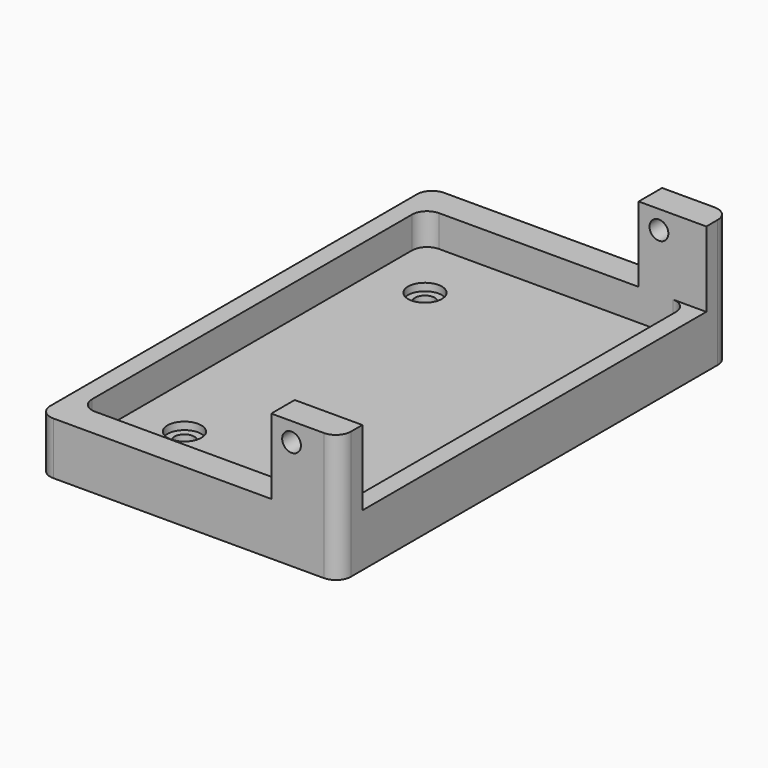
from build123d import *

# Parameters (mm, degrees)
F0_W      = 50.8
F0_H      = 82.55
F1_DEPTH  = 8.89
F2_W      = 44.577
F2_H      = 72.644
F3_DEPTH  = 5.334
F4_R      = 2.54
F5_R      = 1.651
F6_DEPTH  = 25.4
F7_R      = 2.8575
F8_DEPTH  = 1.27
F9_W      = 11.43
F9_H      = 4.953
F10_DEPTH = 12.7
F11_R     = 1.5875
F12_DEPTH = 127
F13_R     = 2.54


with BuildPart() as f1:
    # F0 (on Top) → F1 (new body)
    with BuildSketch(Plane.XY):
        with Locations((-5.138001, -3.863245)):
            Rectangle(F0_W, F0_H)
    extrude(amount=F1_DEPTH)

    # F2 (on face) → F3 (cut)
    with BuildSketch(Plane.XY.offset(8.89)):
        with Locations((-5.138001, -3.863245)):
            Rectangle(F2_W, F2_H)
    extrude(amount=-F3_DEPTH, mode=Mode.SUBTRACT)

    # F4
    f4_edges = [f1.edges().sort_by_distance(p)[0] for p in [
        (-27.426501, 32.458755, 6.223),
        (17.150499, 32.458755, 6.223),
        (17.150499, -40.185245, 6.223),
        (-27.426501, -40.185245, 6.223),
    ]]
    fillet(f4_edges, radius=F4_R)

    # F5 (on face) → F6 (cut)
    with BuildSketch(Plane.XY.offset(3.556)):
        with Locations((-18.536501, 21.536755)):
            Circle(F5_R)
        with Locations((-18.536501, -29.263245)):
            Circle(F5_R)
    extrude(amount=-F6_DEPTH, mode=Mode.SUBTRACT)

    # F7 (on face) → F8 (cut)
    with BuildSketch(Plane.XY.offset(3.556)):
        with Locations((-18.536501, 21.536755)):
            Circle(F7_R)
        with Locations((-18.536501, -29.263245)):
            Circle(F7_R)
    extrude(amount=-F8_DEPTH, mode=Mode.SUBTRACT)

    # F9 (on face) → F10 (join)
    with BuildSketch(Plane.XY.offset(8.89)):
        with Locations((14.546999, -42.661745)):
            Rectangle(F9_W, F9_H)
        with Locations((14.546999, 34.935255)):
            Rectangle(F9_W, F9_H)
    extrude(amount=F10_DEPTH)

    # F11 (on face) → F12 (cut)
    with BuildSketch(Plane.XZ.offset(45.138245)):
        with Locations((12.260999, 18.444914)):
            Circle(F11_R)
    extrude(amount=-F12_DEPTH, mode=Mode.SUBTRACT)

    # F13
    f13_edges = [f1.edges().sort_by_distance(p)[0] for p in [
        (20.261999, -45.138245, 10.795),
        (-30.538001, -45.138245, 4.445),
        (20.261999, 37.411755, 10.795),
        (-30.538001, 37.411755, 4.445),
    ]]
    fillet(f13_edges, radius=F13_R)


solid = f1.part
